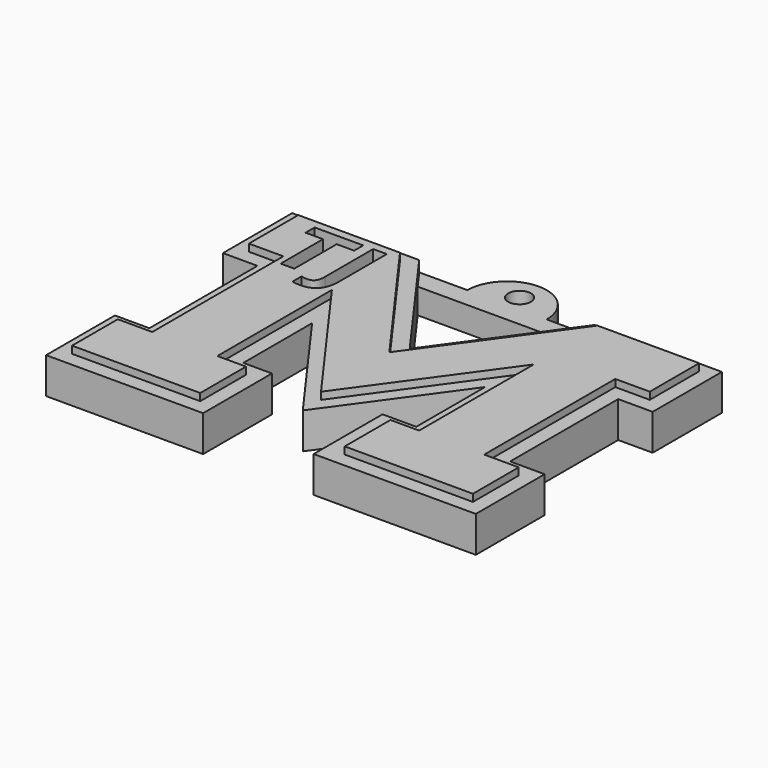
from build123d import *

# Parameters (mm, degrees)
F1_DEPTH = 6
F2_DEPTH = 5
F0_R     = 1.5875
F3_DEPTH = 3.5


with BuildPart() as f1:
    # F0 (on Top) → F1 (new body)
    with BuildSketch(Plane.XY):
        Polygon((-15.9351881593, 21.9910480082), (-30.0434779789, 21.9910480082), (-30.0434779789, 13.430057697), (-25.258971706, 13.430057697), (-25.258971706, -9.3025706224), (-30.0434779789, -9.3025706224), (-30.0434779789, -17.2349981517), (-12.261220109, -17.2349981517), (-12.261220109, -9.3025706224), (-16.2359463498, -9.3025706224), (-16.2359463498, 10.55959519), (-2.239366062, -8.8239717362), (11.7572142258, 10.55959519), (11.7572142258, -9.3025706224), (7.782487985, -9.3025706224), (7.782487985, -17.2349981517), (25.5647458549, -17.2349981517), (25.5647458549, -9.3025706224), (20.7802395821, -9.3025706224), (20.7802395821, 13.430057697), (25.5647458549, 13.430057697), (25.5647458549, 21.9910480082), (11.4564560354, 21.9910480082), (-2.239366062, 3.0239947156), align=None)
        Polygon((-22.5275315528, 19.25616391), (-22.5275315528, 11.906554535), (-24.4201096778, 11.906554535), (-24.4201096778, 19.25616391), (-26.8439378028, 19.25616391), (-26.8439378028, 20.83038266), (-20.1056565528, 20.83038266), (-20.1056565528, 19.25616391), align=None, mode=Mode.SUBTRACT)
        with BuildLine():
            add(Edge.make_bspline(
                [(-17.5538987403, 10.09991391), (-18.2677659278, 9.281554535), (-19.6662034278, 9.281554535)],
                knots=[0, 0, 0, 1, 1, 1], degree=2))
            add(Edge.make_bspline(
                [(-19.6662034278, 9.281554535), (-20.3068284278, 9.281554535), (-20.7833909278, 9.41632016)],
                knots=[0, 0, 0, 1, 1, 1], degree=2))
            Line((-20.7833909278, 9.41632016), (-20.7833909278, 10.99053891))
            add(Edge.make_bspline(
                [(-20.7833909278, 10.99053891), (-20.2951096778, 10.86944516), (-19.8927659278, 10.86944516)],
                knots=[0, 0, 0, 1, 1, 1], degree=2))
            add(Edge.make_bspline(
                [(-19.8927659278, 10.86944516), (-19.2697190528, 10.86944516), (-19.0011643653, 11.2571404725)],
                knots=[0, 0, 0, 1, 1, 1], degree=2))
            add(Edge.make_bspline(
                [(-19.0011643653, 11.2571404725), (-18.7326096778, 11.644835785), (-18.7326096778, 12.469054535)],
                knots=[0, 0, 0, 1, 1, 1], degree=2))
            Line((-18.7326096778, 12.469054535), (-18.7326096778, 20.83038266))
            Line((-18.7326096778, 20.83038266), (-16.8400315528, 20.83038266))
            Line((-16.8400315528, 20.83038266), (-16.8400315528, 12.480773285))
            add(Edge.make_bspline(
                [(-16.8400315528, 12.480773285), (-16.8400315528, 10.918273285), (-17.5538987403, 10.09991391)],
                knots=[0, 0, 0, 1, 1, 1], degree=2))
        make_face(mode=Mode.SUBTRACT)
    extrude(amount=F1_DEPTH)

    # F0 (on Top) → F2 (join)
    with BuildSketch(Plane.XY):
        Polygon((-32.0434779789, 23.4347821093), (-32.0434779789, 11.430057697), (-27.258971706, 11.430057697), (-27.258971706, -7.3025706224), (-32.0434779789, -7.3025706224), (-32.0434779789, -19.2349981517), (-10.261220109, -19.2349981517), (-10.261220109, -7.3025706224), (-14.2359463498, -7.3025706224), (-14.2359463498, 4.6298569068), (-2.239366062, -11.9839524746), (9.7572142258, 4.6298569068), (9.7572142258, -7.3025706224), (5.0740577281, -7.3025706224), (5.0740577281, -19.2349981517), (27.5647458549, -19.2349981517), (27.5647458549, -7.3025706224), (22.7802395821, -7.3025706224), (22.7802395821, 11.430057697), (27.5647458549, 11.430057697), (27.5647458549, 23.4347821093), (9.9496720359, 23.4347821093), (7.983629638, 20.712051727), (-2.239366062, 6.5544419922), (-12.462361762, 20.712051727), (-14.4284041598, 23.4347821093), align=None)
        Polygon((-30.0434779789, 13.430057697), (-30.0434779789, 21.9910480082), (-15.9351881593, 21.9910480082), (-2.239366062, 3.0239947156), (11.4564560354, 21.9910480082), (25.5647458549, 21.9910480082), (25.5647458549, 13.430057697), (20.7802395821, 13.430057697), (20.7802395821, -9.3025706224), (25.5647458549, -9.3025706224), (25.5647458549, -17.2349981517), (7.782487985, -17.2349981517), (7.782487985, -9.3025706224), (11.7572142258, -9.3025706224), (11.7572142258, 10.55959519), (-2.239366062, -8.8239717362), (-16.2359463498, 10.55959519), (-16.2359463498, -9.3025706224), (-12.261220109, -9.3025706224), (-12.261220109, -17.2349981517), (-30.0434779789, -17.2349981517), (-30.0434779789, -9.3025706224), (-25.258971706, -9.3025706224), (-25.258971706, 13.430057697), align=None, mode=Mode.SUBTRACT)
    extrude(amount=F2_DEPTH)

    # F0 (on Top) → F3 (join)
    with BuildSketch(Plane.XY):
        Polygon((-7.739366062, 23.4347821093), (-14.4284041598, 23.4347821093), (-12.462361762, 20.712051727), (7.983629638, 20.712051727), (9.9496720359, 23.4347821093), (3.260633938, 23.4347821093), align=None)
        with BuildLine():
            ThreePointArc((3.260633938, 23.4347821093), (-2.239366062, 28.9347821093), (-7.739366062, 23.4347821093))
            Line((-7.739366062, 23.4347821093), (3.260633938, 23.4347821093))
        make_face()
        with Locations((-2.239366062, 25.6040561944)):
            Circle(F0_R, mode=Mode.SUBTRACT)
    extrude(amount=F3_DEPTH)


solid = f1.part
